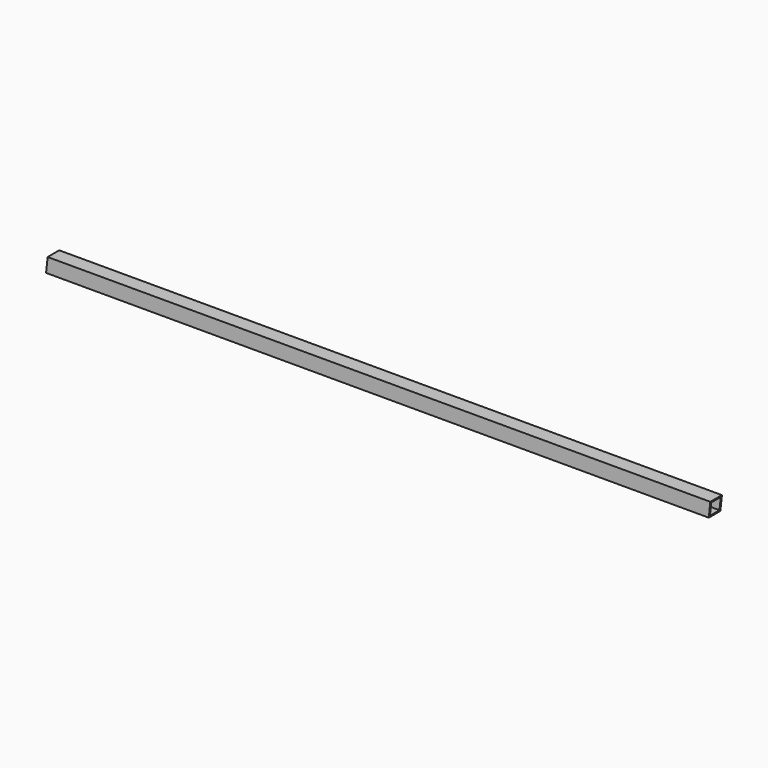
from build123d import *

# Parameters (mm, degrees)
SKETCH_W        = 31.75
SKETCH_H        = 31.75
SKETCH_W_2      = 26.2128
SKETCH_H_2      = 26.2128
PAD_DEPTH       = 1452.84
POCKET_DEPTH    = 31.75
POCKET001_DEPTH = 31.75


with BuildPart() as part:
    # Sketch → Pad (new body)
    with BuildSketch(Plane.YZ):
        with Locations((0, 15.875)):
            Rectangle(SKETCH_W, SKETCH_H)
        with Locations((0, 15.875)):
            Rectangle(SKETCH_W_2, SKETCH_H_2, mode=Mode.SUBTRACT)
    extrude(amount=PAD_DEPTH)

    # Sketch001 → Pocket (cut)
    with BuildSketch(Plane(origin=(0, -15.875, 0), x_dir=(0, 0, -1), z_dir=(0, -1, 0))):
        Polygon((0, 0), (-31.75, 0), (-31.75, 3.356827), align=None)
    extrude(amount=-POCKET_DEPTH, mode=Mode.SUBTRACT)

    # Sketch002 → Pocket001 (cut)
    with BuildSketch(Plane(origin=(0, -15.875, 0), x_dir=(0, 0, -1), z_dir=(0, -1, 0))):
        Polygon((-31.75, 1452.84), (0, 1452.84), (0, 1449.483173), align=None)
    extrude(amount=-POCKET001_DEPTH, mode=Mode.SUBTRACT)


solid = part.part
